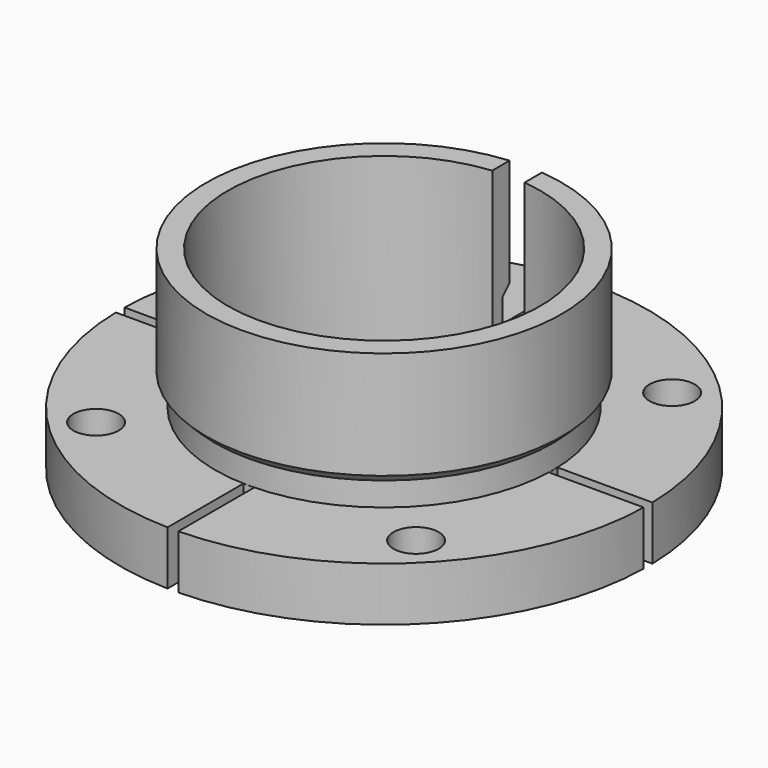
from build123d import *

# Parameters (mm, degrees)
SKETCH001_W           = 3
SKETCH001_H           = 12
POCKET_DEPTH          = 18.001
SKETCH002_W           = 1
SKETCH002_H           = 8.8
POCKET001_DEPTH       = 5
POLARPATTERN_COUNT    = 4
SKETCH003_R           = 2.1
POCKET002_DEPTH       = 5
POLARPATTERN001_COUNT = 4


with BuildPart() as part:
    # Sketch → Revolution (revolve)
    with BuildSketch(Plane.XZ):
        Polygon((-14.5, 0), (-14.5, 18), (-16.5, 18), (-16.5, 8), (-15.7, 7.2), (-15.7, 5), (-24.5, 5), (-24.5, 0), align=None)
    revolve(axis=Axis((0, 0, 0), (0, 0, 1)))

    # Sketch001 → Pocket (cut, through all)
    with BuildSketch(Plane.XY.offset(18)):
        with Locations((0, 19.5)):
            Rectangle(SKETCH001_W, SKETCH001_H)
    extrude(amount=-POCKET_DEPTH, mode=Mode.SUBTRACT)

    # Sketch002 → Pocket001 (cut)
    with BuildSketch(Plane.XY):
        with Locations((0, -20.1)):
            Rectangle(SKETCH002_W, SKETCH002_H)
    pocket001 = extrude(amount=POCKET001_DEPTH, mode=Mode.SUBTRACT)

    # PolarPattern: Pocket001 ×4 about axis
    polarpattern_axis = Axis((0, 0, 0), (0, 0, 1))
    for i in range(1, POLARPATTERN_COUNT):
        add(pocket001.rotate(polarpattern_axis, i * 360 / POLARPATTERN_COUNT), mode=Mode.SUBTRACT)

    # Sketch003 → Pocket002 (cut)
    with BuildSketch(Plane.XY):
        with Locations((14.849242, 14.849242)):
            Circle(SKETCH003_R)
    pocket002 = extrude(amount=POCKET002_DEPTH, mode=Mode.SUBTRACT)

    # PolarPattern001: Pocket002 ×4 about axis
    polarpattern001_axis = Axis((0, 0, 0), (0, 0, 1))
    for i in range(1, POLARPATTERN001_COUNT):
        add(pocket002.rotate(polarpattern001_axis, i * 360 / POLARPATTERN001_COUNT), mode=Mode.SUBTRACT)


solid = part.part
